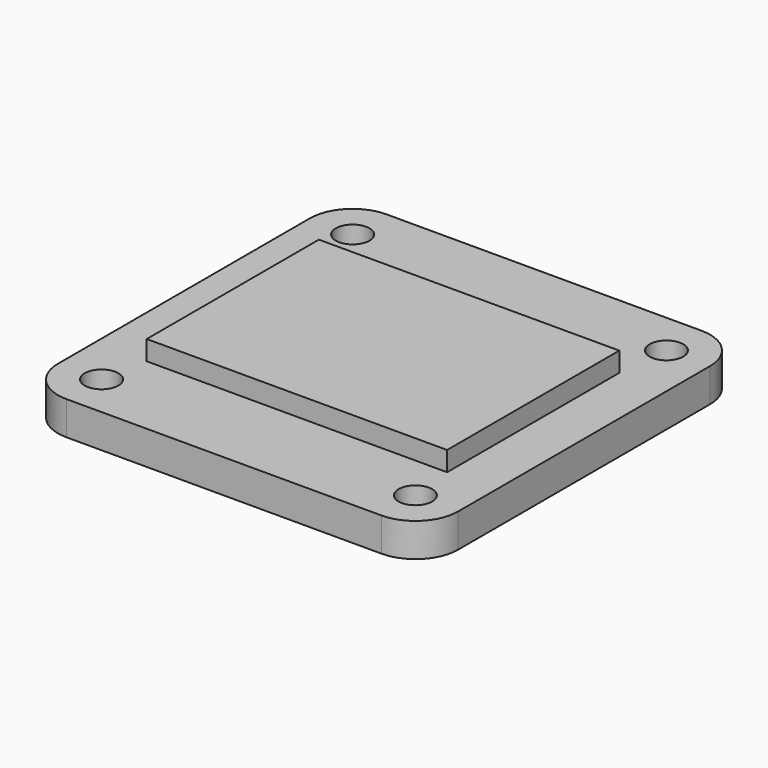
from build123d import *

# Parameters (mm, degrees)
SKETCH_R     = 1.5
PAD_DEPTH    = 1.5
SKETCH001_W  = 26.8
SKETCH001_H  = 19.2
PAD001_DEPTH = 1.75


with BuildPart() as part:
    # Sketch → Pad (new body, symmetric)
    with BuildSketch(Plane.XY):
        with BuildLine():
            Line((-14.05, 17.85), (14.05, 17.85))
            ThreePointArc((17.85, 14.05), (16.737006, 16.737006), (14.05, 17.85))
            Line((17.85, 14.05), (17.85, -14.05))
            ThreePointArc((14.05, -17.85), (16.737006, -16.737006), (17.85, -14.05))
            Line((14.05, -17.85), (-14.05, -17.85))
            ThreePointArc((-17.85, -14.05), (-16.737006, -16.737006), (-14.05, -17.85))
            Line((-17.85, -14.05), (-17.85, 14.05))
            ThreePointArc((-14.05, 17.85), (-16.737006, 16.737006), (-17.85, 14.05))
        make_face()
        with Locations((-14, 14)):
            Circle(SKETCH_R, mode=Mode.SUBTRACT)
        with Locations((-14, -14)):
            Circle(SKETCH_R, mode=Mode.SUBTRACT)
        with Locations((14, -14)):
            Circle(SKETCH_R, mode=Mode.SUBTRACT)
        with Locations((14, 14)):
            Circle(SKETCH_R, mode=Mode.SUBTRACT)
    extrude(amount=PAD_DEPTH, both=True)

    # Sketch001 → Pad001 (new body)
    with BuildSketch(Plane.XY.offset(1.5)):
        with Locations((0.15, -0.3)):
            Rectangle(SKETCH001_W, SKETCH001_H)
    extrude(amount=PAD001_DEPTH)


solid = part.part
